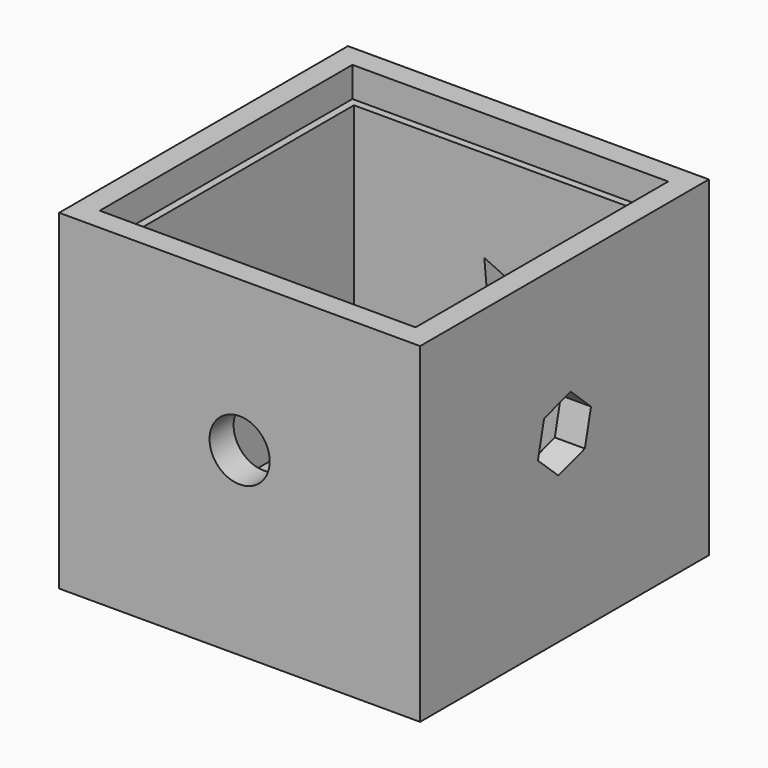
from build123d import *

# Parameters (mm, degrees)
F0_W      = 304.8
F0_H      = 304.8
F1_DEPTH  = 25.4
F3_DEPTH  = 254
F5_DEPTH  = 25.4
F7_DEPTH  = 25.4
F9_DEPTH  = 25.4
F11_DEPTH = 25.4
F13_DEPTH = 25.4
F15_DEPTH = 25.4


with BuildPart() as f1:
    # F0 (on Top) → F1 (new body)
    with BuildSketch(Plane.XY):
        with Locations((-18.562319, 79.558338)):
            Rectangle(F0_W, F0_H)
    extrude(amount=F1_DEPTH)

    # F2 (on face) → F3 (join)
    with BuildSketch(Plane.XY.offset(25.4)):
        Polygon((-145.562319, 231.958338), (-170.962319, 231.958338), (-170.962319, -72.841662), (108.437681, -72.841662), (108.437681, -47.441662), (-145.562319, -47.441662), (-145.562319, 206.558338), align=None)
        Polygon((133.837681, 231.958338), (-145.562319, 231.958338), (-145.562319, 206.558338), (108.437681, 206.558338), (108.437681, -47.441662), (108.437681, -72.841662), (133.837681, -72.841662), align=None)
    extrude(amount=F3_DEPTH)

    # F4 (on face) → F5 (cut)
    with BuildSketch(Plane.XY.offset(279.4)):
        Polygon((-145.562319, 212.908338), (-145.562319, 206.558338), (108.437681, 206.558338), (108.437681, -47.441662), (108.437681, -53.791662), (114.787681, -53.791662), (114.787681, 212.908338), align=None)
        Polygon((-145.562319, -47.441662), (-145.562319, 206.558338), (-145.562319, 212.908338), (-151.912319, 212.908338), (-151.912319, -53.791662), (108.437681, -53.791662), (108.437681, -47.441662), align=None)
    extrude(amount=-F5_DEPTH, mode=Mode.SUBTRACT)

    # F6 (on face) → F7 (cut)
    with BuildSketch(Plane.XZ.offset(72.841662)):
        with BuildLine():
            ThreePointArc((6.837681, 152.4), (-0.601807, 170.360512), (-18.562319, 177.8))
            ThreePointArc((-18.562319, 177.8), (-36.522831, 134.439488), (6.837681, 152.4))
        make_face()
    extrude(amount=-F7_DEPTH, mode=Mode.SUBTRACT)

    # F8 (on face) → F9 (cut)
    with BuildSketch(Plane.YZ.offset(133.837681)):
        Polygon((86.032008, 181.00603), (79.558338, 178.996087), (58.021625, 172.309378), (51.547955, 143.703348), (73.084668, 123.79397), (101.095051, 132.490622), (107.568721, 161.096652), align=None)
    extrude(amount=-F9_DEPTH, mode=Mode.SUBTRACT)

    # F10 (on face) → F11 (cut)
    with BuildSketch(Plane(origin=(0, 231.958338, 0), x_dir=(-1, 0, 0), z_dir=(0, 1, 0))):
        Polygon((35.435384, 176.389852), (18.562319, 168.564909), (-10.650035, 155.017578), (30.901607, 125.792571), align=None)
    extrude(amount=-F11_DEPTH, mode=Mode.SUBTRACT)

    # F12 (on face) → F13 (cut)
    with BuildSketch(Plane(origin=(0, 0, 0), x_dir=(1, 0, 0), z_dir=(0, 0, -1))):
        Polygon((17.358706, -43.637314), (-18.562319, -79.558338), (-54.483343, -43.637314), (-72.443855, -61.597826), (-36.522831, -97.51885), (-72.443855, -133.439875), (-54.483343, -151.400387), (-18.562319, -115.479363), (17.358706, -151.400387), (35.319218, -133.439875), (-0.601807, -97.51885), (35.319218, -61.597826), align=None)
    extrude(amount=-F13_DEPTH, mode=Mode.SUBTRACT)

    # F14 (on face) → F15 (cut)
    with BuildSketch(Plane(origin=(-170.962319, 0, 0), x_dir=(0, -1, 0), z_dir=(-1, 0, 0))):
        Polygon((-74.14409, 183.325761), (-79.558338, 180.676894), (-107.29739, 167.105841), (-102.116263, 130.562949), (-65.76085, 124.198119), (-48.473097, 156.80733), align=None)
    extrude(amount=-F15_DEPTH, mode=Mode.SUBTRACT)


solid = f1.part
